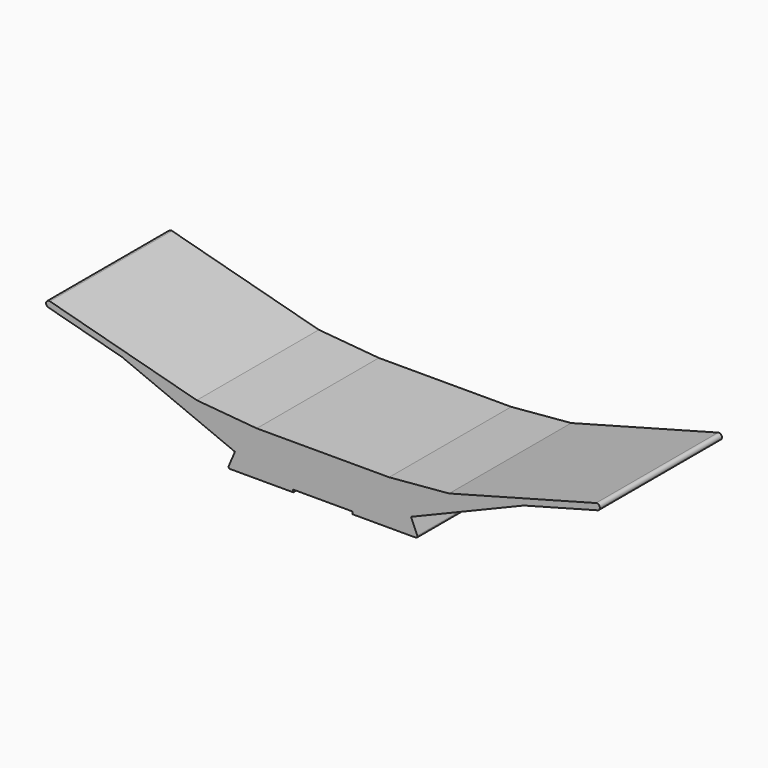
from build123d import *

# Parameters (mm, degrees)
F1_DEPTH = 50


with BuildPart() as f1:
    # F0 (on Front) → F1 (new body)
    with BuildSketch(Plane.XZ):
        with BuildLine():
            Line((28.746283, -6.775675), (26.693859, -11.57922))
            ThreePointArc((26.693859, -11.57922), (26.736378, -12.051149), (27.153648, -12.275675))
            Line((27.153648, -12.275675), (47.853648, -12.275675))
            Line((47.853648, -12.275675), (47.853648, -11.475675))
            Line((47.853648, -11.475675), (57.596283, -11.475675))
            Line((57.596283, -11.475675), (57.596283, 2.295394))
            Line((57.596283, 2.295394), (35.904673, 2.295394))
            Line((35.904673, 2.295394), (16.24208, 4.015648))
            Line((16.24208, 4.015648), (-31.885196, 16.911313))
            ThreePointArc((-31.885196, 16.911313), (-33.109942, 16.204206), (-32.402835, 14.97946))
            Line((-32.402835, 14.97946), (-8.254689, 8.508984))
            Line((-8.254689, 8.508984), (15.893457, 2.038508))
            Line((15.893457, 2.038508), (35.817351, 0.295393))
            Line((35.817351, 0.295393), (28.746283, -6.775675))
        make_face()
        Polygon((-8.254689, 8.508984), (28.746283, -6.775675), (35.817351, 0.295393), (15.893457, 2.038508), align=None)
    extrude(amount=F1_DEPTH)

    # F2: F1 across face


with BuildPart() as f1_1:
    add(f1.part)
    add(f1.part.mirror(Plane(origin=(57.596283, -25, -4.59014), x_dir=(0, 1, 0), z_dir=(1, 0, 0))))


solid = f1_1.part
